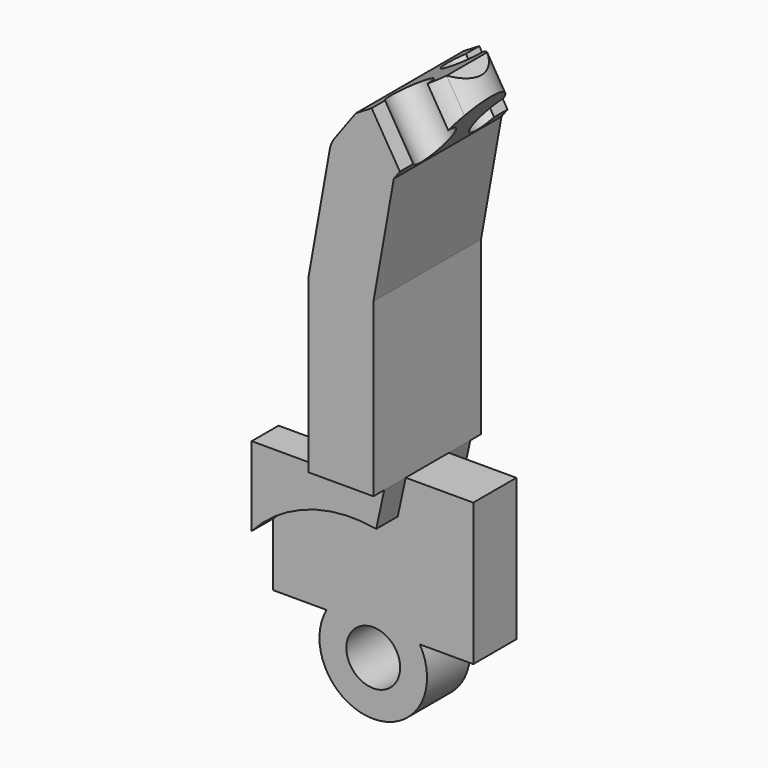
from build123d import *

# Parameters (mm, degrees)
F1_DEPTH = 10
F0_R     = 5
F2_DEPTH = 5
F0_W     = 12.0738212518
F0_H     = 31.9068175741
F3_DEPTH = 12.5
F4_R     = 5
F5_SIZE2 = 5
F5_SIZE  = 10
F7_DEPTH = 25
F8_W     = 7.5
F8_H     = 27.4257330972
F9_DEPTH = 15


with BuildPart() as f1:
    # F0 (on Front) → F1 (new body, symmetric)
    with BuildSketch(Plane.XZ):
        with BuildLine():
            Line((-21.1634319276, -26.7058201134), (-21.1634319276, -41.4115685539))
            ThreePointArc((-21.1634319276, -41.4115685539), (-10.6175206449, -34.455488704), (1.9829672237, -33.5438982608))
            Line((1.9829672237, -33.5438982608), (3.4650283433, -26.7058201134))
            Line((3.4650283433, -26.7058201134), (-8.6087929085, -26.7058201134))
            Line((-8.6087929085, -26.7058201134), (-21.1634319276, -26.7058201134))
        make_face()
    extrude(amount=F1_DEPTH, both=True)

    # F0 (on Front) → F2 (join, symmetric)
    with BuildSketch(Plane.XZ):
        with BuildLine():
            Line((-21.1634319276, -41.4115685539), (-21.1634319276, -53.1254634261))
            Line((-21.1634319276, -53.1254634261), (-19.8923903583, -53.1254634261))
            Line((-19.8923903583, -53.1254634261), (-11.2321363204, -53.1254634261))
            ThreePointArc((-11.2321363204, -53.1254634261), (-2.5718822826, -68.1254634261), (6.0883717553, -53.1254634261))
            Line((6.0883717553, -53.1254634261), (14.7486257931, -53.1254634261))
            Line((14.7486257931, -53.1254634261), (16.0196673624, -53.1254634261))
            Line((16.0196673624, -53.1254634261), (16.0196673624, -41.4115685539))
            ThreePointArc((16.0196673624, -41.4115685539), (9.6516199724, -36.3175292593), (1.9829672237, -33.5438982608))
            ThreePointArc((1.9829672237, -33.5438982608), (-10.6175206449, -34.455488704), (-21.1634319276, -41.4115685539))
        make_face()
        with Locations((-2.5718822826, -58.1254634261)):
            Circle(F0_R, mode=Mode.SUBTRACT)
        with BuildLine():
            Line((3.4650283433, -26.7058201134), (1.9829672237, -33.5438982608))
            ThreePointArc((1.9829672237, -33.5438982608), (9.6516199724, -36.3175292593), (16.0196673624, -41.4115685539))
            Line((16.0196673624, -41.4115685539), (16.0196673624, -26.7058201134))
            Line((16.0196673624, -26.7058201134), (3.4650283433, -26.7058201134))
        make_face()
    extrude(amount=F2_DEPTH, both=True)

    # F0 (on Front) → F3 (join, symmetric)
    with BuildSketch(Plane.XZ):
        with Locations((-2.5718822826, -10.7524113264)):
            Rectangle(F0_W, F0_H)
        Polygon((-4.447942134, 28.565781191), (-8.6087929085, 5.2009974606), (3.4650283433, 5.2009974606), (7.2547487569, 26.4817409097), align=None)
        Polygon((6.1142202467, 42.9687313735), (-4.447942134, 28.565781191), (7.2547487569, 26.4817409097), (16.6688518649, 39.3191555594), align=None)
    extrude(amount=F3_DEPTH, both=True)

    # F4
    f4_edges = [f1.edges().sort_by_distance(p)[0] for p in [
        (-8.608793, 0, 5.200997),
        (-4.447942, 0, 28.565781),
    ]]
    fillet(f4_edges, radius=F4_R)

    # F5
    f5_edges = [f1.edges().sort_by_distance(p)[0] for p in [
        (6.11422, 0, 42.968731),
    ]]
    f5_side = f1.faces().sort_by_distance((1.176582, 0, 36.235587))[0]
    chamfer(f5_edges, length=F5_SIZE, length2=F5_SIZE2, reference=f5_side)

    # F6 (on face) → F7 (cut)
    with BuildSketch(Plane(origin=(-15.3979489719, 0, 25.4772253764), x_dir=(0.8558343717, 0, 0.5172499669), z_dir=(-0.5172499669, 0, 0.8558343717))):
        with BuildLine():
            Line((30.657387603, 12.5), (30.657387603, 4.6880120664))
            ThreePointArc((30.657387603, 4.6880120664), (32.4777582205, 0), (30.657387603, -4.6880120664))
            Line((30.657387603, -4.6880120664), (30.657387603, -12.5))
            Line((30.657387603, -12.5), (39.1792431474, -12.5))
            Line((39.1792431474, -12.5), (39.1792431474, 12.5))
            Line((39.1792431474, 12.5), (30.657387603, 12.5))
        make_face()
        with BuildLine():
            Line((21.6556563973, 12.5), (21.6556563973, 9.3958744477))
            ThreePointArc((21.6556563973, 9.3958744477), (22.5944314954, 2.8906144363), (28.1230778906, 6.445016712))
            ThreePointArc((28.1230778906, 6.445016712), (29.4889605189, 5.7089196767), (30.657387603, 4.6880120664))
            Line((30.657387603, 4.6880120664), (30.657387603, 12.5))
            Line((30.657387603, 12.5), (21.6556563973, 12.5))
        make_face()
        with BuildLine():
            Line((30.657387603, -12.5), (30.657387603, -4.6880120664))
            ThreePointArc((30.657387603, -4.6880120664), (29.4889605189, -5.7089196767), (28.1230778906, -6.445016712))
            ThreePointArc((28.1230778906, -6.445016712), (22.5944314954, -2.8906144363), (21.6556563973, -9.3958744477))
            Line((21.6556563973, -9.3958744477), (21.6556563973, -12.5))
            Line((21.6556563973, -12.5), (30.657387603, -12.5))
        make_face()
    extrude(amount=-F7_DEPTH, mode=Mode.SUBTRACT)

    # F8 (on face) → F9 (cut)
    with BuildSketch(Plane(origin=(-21.1634319276, 0, 0), x_dir=(0, -1, 0), z_dir=(-1, 0, 0))):
        with Locations((0, -39.4125968775)):
            Rectangle(F8_W, F8_H)
    extrude(amount=-F9_DEPTH, mode=Mode.SUBTRACT)


solid = f1.part
